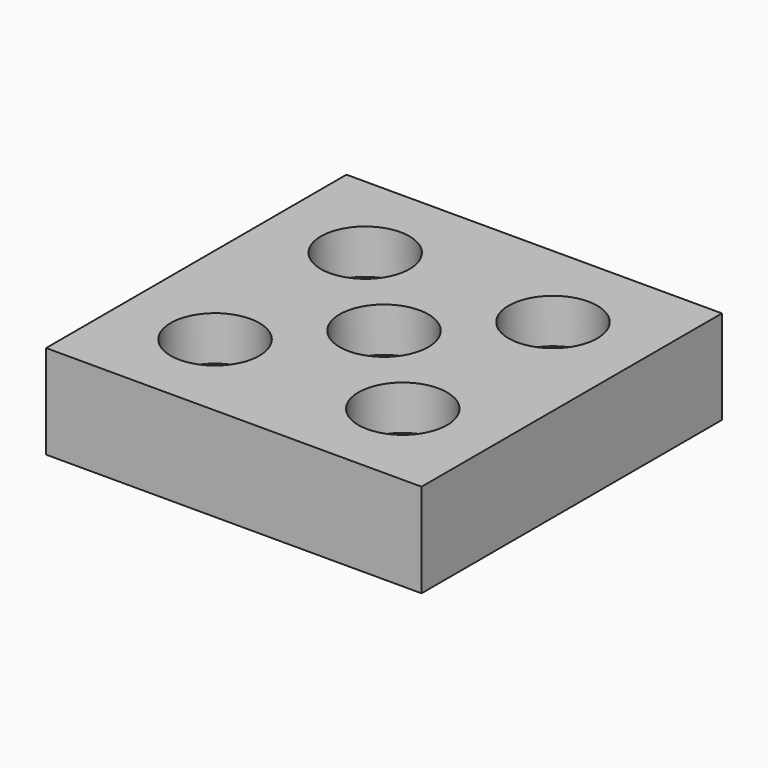
from build123d import *

# Parameters (mm, degrees)
F0_W     = 101.6
F0_H     = 101.6
F1_DEPTH = 25.4
F3_D     = 24
F3_DEPTH = 12
F3_TIP   = 7.2103274283


with BuildPart() as f1:
    # F0 (on Top) → F1 (new body)
    with BuildSketch(Plane.XY):
        Rectangle(F0_W, F0_H)
    extrude(amount=F1_DEPTH)

    # F3
    with Locations(Plane.XY.offset(25.4)):
        with Locations((-25.4, 25.4), (25.4, 25.4), (0, 0), (25.4, -25.4), (-25.4, -25.4)):
            Hole(F3_D / 2, depth=F3_DEPTH)
            with Locations((0, 0, -(F3_DEPTH + F3_TIP / 2))):  # 118° drill point
                Cone(0, F3_D / 2, F3_TIP, mode=Mode.SUBTRACT)


solid = f1.part
